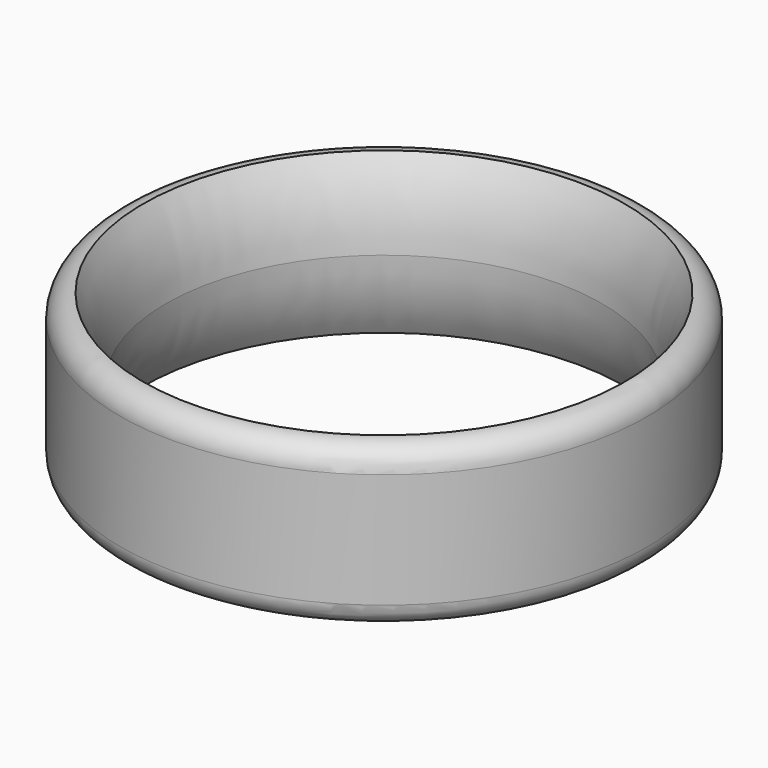
from build123d import *


with BuildPart() as f1:
    # F0 (on Right) → F1 (revolve)
    with BuildSketch(Plane.YZ):
        with BuildLine():
            Line((1, -2.5), (1, 0))
            Line((1, 0), (1, 2.5))
            ThreePointArc((1, 2.5), (0.707107, 3.207107), (0, 3.5))
            ThreePointArc((0, 3.5), (-0.745096, 1.820027), (-1, 0))
            ThreePointArc((-1, 0), (-0.745096, -1.820027), (0, -3.5))
            ThreePointArc((0, -3.5), (0.707107, -3.207107), (1, -2.5))
        make_face()
    revolve(axis=Axis((0, -10.5, -0.390912), (0, 0, 1)))


solid = f1.part
